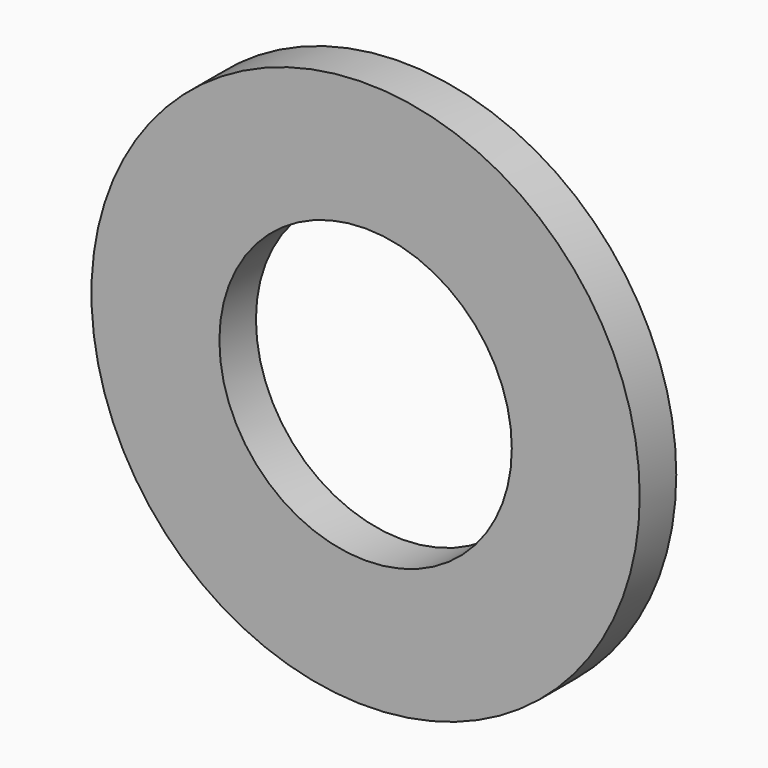
from build123d import *

# Parameters (mm, degrees)
SKETCH_R   = 3
SKETCH_R_2 = 1.6
PAD_DEPTH  = 0.25


with BuildPart() as part:
    # Sketch → Pad (new body, symmetric)
    with BuildSketch(Plane.XZ):
        Circle(SKETCH_R)
        Circle(SKETCH_R_2, mode=Mode.SUBTRACT)
    extrude(amount=PAD_DEPTH, both=True)


solid = part.part
